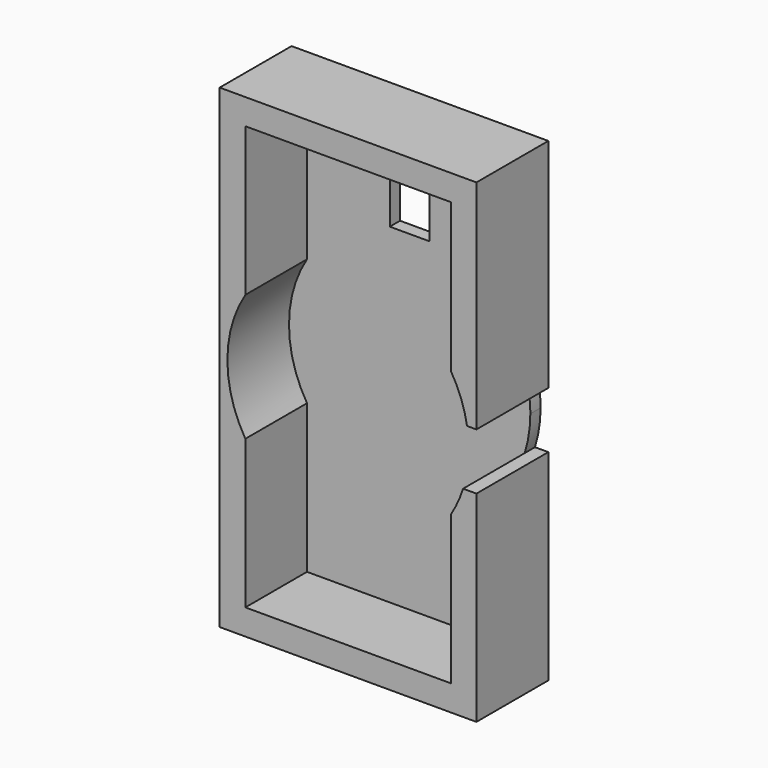
from build123d import *

# Parameters (mm, degrees)
F1_DEPTH = 35
F2_DEPTH = 5


with BuildPart() as f1:
    # F0 (on Front) → F1 (new body)
    with BuildSketch(Plane.XZ):
        with BuildLine():
            Line((40, -24.6779253585), (40, -82.5))
            Line((40, -82.5), (-40, -82.5))
            Line((-40, -82.5), (-40, -24.6779253585))
            ThreePointArc((-40, -24.6779253585), (-47, 0), (-40, 24.6779253585))
            Line((-40, 24.6779253585), (-40, 82.5))
            Line((-40, 82.5), (40, 82.5))
            Line((40, 82.5), (40, 24.6779253585))
            ThreePointArc((40, 24.6779253585), (43.9929816254, 16.5413895338), (46.3499756409, 7.7897213101))
            Line((46.3499756409, 7.7897213101), (50, 7.7897213101))
            Line((50, 7.7897213101), (50, 92.5))
            Line((50, 92.5), (-50, 92.5))
            Line((-50, 92.5), (-50, -92.5))
            Line((-50, -92.5), (50, -92.5))
            Line((50, -92.5), (50, -14.2102786899))
            Line((50, -14.2102786899), (44.8003122707, -14.2102786899))
            ThreePointArc((44.8003122707, -14.2102786899), (42.7219632859, -19.5916781568), (40, -24.6779253585))
        make_face()
    extrude(amount=F1_DEPTH)

    # F0 (on Front) → F2 (join)
    with BuildSketch(Plane.XZ):
        with BuildLine():
            ThreePointArc((-40, -24.6779253585), (0, -47), (40, -24.6779253585))
            Line((40, -24.6779253585), (40, -14.2102786899))
            Line((40, -14.2102786899), (40, 7.7897213101))
            Line((40, 7.7897213101), (40, 24.6779253585))
            ThreePointArc((40, 24.6779253585), (26.2203589839, 39.0063171135), (7.75, 46.3566338295))
            Line((7.75, 46.3566338295), (-7.75, 46.3566338295))
            ThreePointArc((-7.75, 46.3566338295), (-26.2203589839, 39.0063171135), (-40, 24.6779253585))
            Line((-40, 24.6779253585), (-40, -24.6779253585))
        make_face()
        with BuildLine():
            Line((-40, -82.5), (40, -82.5))
            Line((40, -82.5), (40, -24.6779253585))
            ThreePointArc((40, -24.6779253585), (0, -47), (-40, -24.6779253585))
            Line((-40, -24.6779253585), (-40, -82.5))
        make_face()
        with BuildLine():
            Line((40, -14.2102786899), (40, -24.6779253585))
            ThreePointArc((40, -24.6779253585), (42.7219632859, -19.5916781568), (44.8003122707, -14.2102786899))
            Line((44.8003122707, -14.2102786899), (40, -14.2102786899))
        make_face()
        with BuildLine():
            Line((-40, 82.5), (-40, 24.6779253585))
            ThreePointArc((-40, 24.6779253585), (-26.2203589839, 39.0063171135), (-7.75, 46.3566338295))
            Line((-7.75, 46.3566338295), (-7.75, 63.6398490761))
            Line((-7.75, 63.6398490761), (7.75, 63.6398490761))
            Line((7.75, 63.6398490761), (7.75, 46.3566338295))
            ThreePointArc((7.75, 46.3566338295), (26.2203589839, 39.0063171135), (40, 24.6779253585))
            Line((40, 24.6779253585), (40, 82.5))
            Line((40, 82.5), (-40, 82.5))
        make_face()
        with BuildLine():
            ThreePointArc((-40, 24.6779253585), (-47, 0), (-40, -24.6779253585))
            Line((-40, -24.6779253585), (-40, 24.6779253585))
        make_face()
        with BuildLine():
            Line((40, 24.6779253585), (40, 7.7897213101))
            Line((40, 7.7897213101), (46.3499756409, 7.7897213101))
            ThreePointArc((46.3499756409, 7.7897213101), (43.9929816254, 16.5413895338), (40, 24.6779253585))
        make_face()
        with BuildLine():
            Line((40, 7.7897213101), (40, -14.2102786899))
            Line((40, -14.2102786899), (44.8003122707, -14.2102786899))
            ThreePointArc((44.8003122707, -14.2102786899), (46.4468226939, -7.1897608888), (47, 0))
            ThreePointArc((47, 0), (46.837211996, 3.9083976818), (46.3499756409, 7.7897213101))
            Line((46.3499756409, 7.7897213101), (40, 7.7897213101))
        make_face()
    extrude(amount=F2_DEPTH)


solid = f1.part
